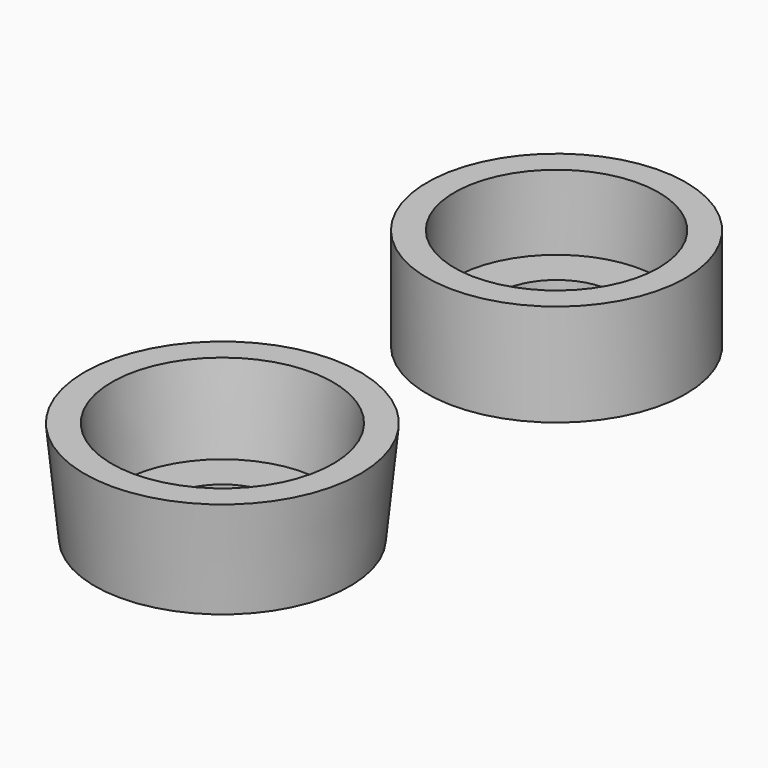
from build123d import *

# Parameters (mm, degrees)
F0_R     = 3.8
F0_R_2   = 1.75
F1_DEPTH = 3
F2_T     = -0.8


with BuildPart() as f1:
    # F0 (on Top) → F1 (new body)
    with BuildSketch(Plane.XY):
        Circle(F0_R)
        Circle(F0_R_2, mode=Mode.SUBTRACT)
    extrude(amount=F1_DEPTH)

    # F2
    f2_openings = [f1.faces().sort_by_distance(p)[0] for p in [
        (-3.69252, 0, 3),
        (-1.75, 0, 1.5),
    ]]
    offset(amount=F2_T, openings=f2_openings)


with BuildPart() as f4:
    # F3 (on Right) → F4 (revolve)
    with BuildSketch(Plane.YZ):
        Polygon((-15.220374, 0), (-14.020374, 0), (-14.020374, 0.5), (-15.270374, 0.5), (-15.520374, 3), (-16.320374, 3), (-16.020374, 0), align=None)
    revolve(axis=Axis((0, -12.270374, 2.215799), (0, 0, 1)))


solid = Compound([f1.part, f4.part])
